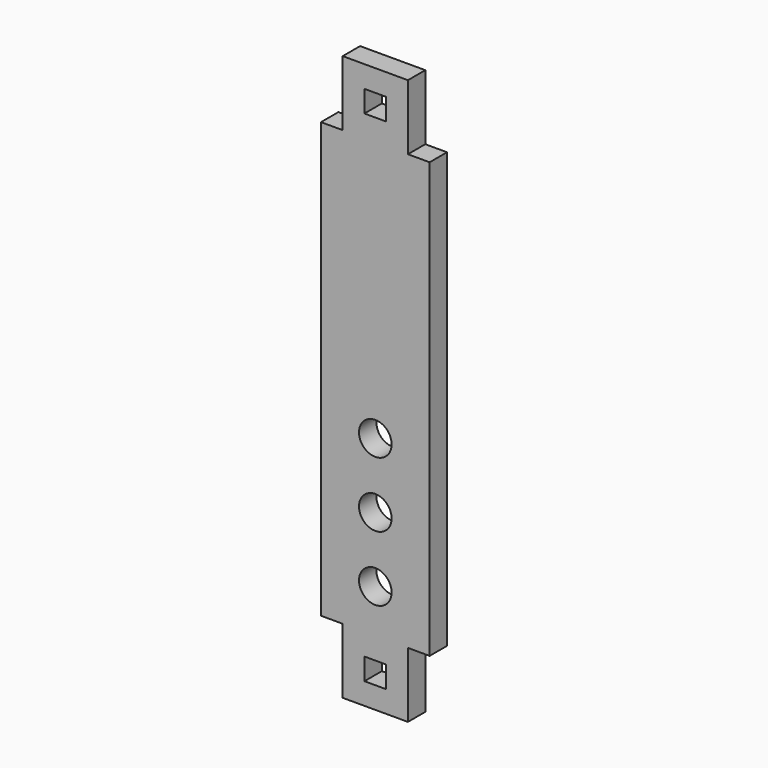
from build123d import *

# Parameters (mm, degrees)
CYLINDER005_R          = 2.25
CYLINDER005_DEPTH      = 3
CYLINDER005_ROLL_ANGLE = 90
CYLINDER006_R          = 2.25
CYLINDER006_DEPTH      = 3
CYLINDER006_ROLL_ANGLE = 90
CYLINDER004_R          = 2.25
CYLINDER004_DEPTH      = 3
CYLINDER004_ROLL_ANGLE = 90
BOX011_W               = 15
BOX011_H               = 3
BOX011_DEPTH           = 60
BOX010_W               = 3
BOX010_H               = 3
BOX010_DEPTH           = 3
BOX009_W               = 9
BOX009_H               = 3
BOX009_DEPTH           = 9
BOX013_W               = 3
BOX013_H               = 3
BOX013_DEPTH           = 3
BOX012_W               = 9
BOX012_H               = 3
BOX012_DEPTH           = 9


with BuildPart() as cylinder005:
    # Cylinder005 → Cylinder005 (new body)
    with BuildSketch(Plane.XY):
        Circle(CYLINDER005_R)
    extrude(amount=CYLINDER005_DEPTH)


with BuildPart() as cylinder005_1:
    # Cylinder005 roll: moved
    add(cylinder005.part.rotate(Axis((0, 0, 0), (1, 0, 0)), CYLINDER005_ROLL_ANGLE))


with BuildPart() as cylinder005_2:
    # Cylinder005 placement: moved
    add(cylinder005_1.part.moved(Location((0, -63, -3))))


with BuildPart() as cylinder006:
    # Cylinder006 → Cylinder006 (new body)
    with BuildSketch(Plane.XY):
        Circle(CYLINDER006_R)
    extrude(amount=CYLINDER006_DEPTH)


with BuildPart() as cylinder006_1:
    # Cylinder006 roll: moved
    add(cylinder006.part.rotate(Axis((0, 0, 0), (1, 0, 0)), CYLINDER006_ROLL_ANGLE))


with BuildPart() as cylinder006_2:
    # Cylinder006 placement: moved
    add(cylinder006_1.part.moved(Location((0, -63, -21))))


with BuildPart() as cylinder004:
    # Cylinder004 → Cylinder004 (new body)
    with BuildSketch(Plane.XY):
        Circle(CYLINDER004_R)
    extrude(amount=CYLINDER004_DEPTH)


with BuildPart() as cylinder004_1:
    # Cylinder004 roll: moved
    add(cylinder004.part.rotate(Axis((0, 0, 0), (1, 0, 0)), CYLINDER004_ROLL_ANGLE))


with BuildPart() as cylinder004_2:
    # Cylinder004 placement: moved
    add(cylinder004_1.part.moved(Location((0, -63, -12))))


with BuildPart() as cube011:
    # Box011 → Box011 (new body)
    with BuildSketch(Plane(origin=(-7.5, -66, -27), x_dir=(1, 0, 0), z_dir=(0, 0, 1))):
        with Locations((7.5, 1.5)):
            Rectangle(BOX011_W, BOX011_H)
    extrude(amount=BOX011_DEPTH)


with BuildPart() as cube010:
    # Box010 → Box010 (new body)
    with BuildSketch(Plane(origin=(-1.5, -66, 6), x_dir=(1, 0, 0), z_dir=(0, 0, 1))):
        with Locations((1.5, 1.5)):
            Rectangle(BOX010_W, BOX010_H)
    extrude(amount=BOX010_DEPTH)


with BuildPart() as cut010:
    # Box009 → Box009 (new body)
    with BuildSketch(Plane(origin=(-4.5, -66, 3), x_dir=(1, 0, 0), z_dir=(0, 0, 1))):
        with Locations((4.5, 1.5)):
            Rectangle(BOX009_W, BOX009_H)
    extrude(amount=BOX009_DEPTH)

    # Cut010: cut Cube010
    add(cube010.part, mode=Mode.SUBTRACT)


with BuildPart() as cut010_1:
    # Cut010 placement: moved
    add(cut010.part.moved(Location((0, 0, 30))))


with BuildPart() as cube013:
    # Box013 → Box013 (new body)
    with BuildSketch(Plane(origin=(-1.5, -66, 6), x_dir=(1, 0, 0), z_dir=(0, 0, 1))):
        with Locations((1.5, 1.5)):
            Rectangle(BOX013_W, BOX013_H)
    extrude(amount=BOX013_DEPTH)


with BuildPart() as pitchringconnector:
    # Box012 → Box012 (new body)
    with BuildSketch(Plane(origin=(-4.5, -66, 3), x_dir=(1, 0, 0), z_dir=(0, 0, 1))):
        with Locations((4.5, 1.5)):
            Rectangle(BOX012_W, BOX012_H)
    extrude(amount=BOX012_DEPTH)

    # Cut011: cut Cube013
    add(cube013.part, mode=Mode.SUBTRACT)


with BuildPart() as pitchringconnector_1:
    # Cut011 placement: moved
    add(pitchringconnector.part.moved(Location((0, 0, -39))))

    # Fusion: union Cube011, Cut010
    add(cube011.part)
    add(cut010_1.part)

    # Cut012: cut Cylinder004
    add(cylinder004_2.part, mode=Mode.SUBTRACT)

    # Cut013: cut Cylinder006
    add(cylinder006_2.part, mode=Mode.SUBTRACT)

    # Cut014: cut Cylinder005
    add(cylinder005_2.part, mode=Mode.SUBTRACT)


with BuildPart() as pitchringconnector_2:
    # Cut014 placement: moved
    add(pitchringconnector_1.part.moved(Location((0, 29, -3))))


solid = pitchringconnector_2.part
